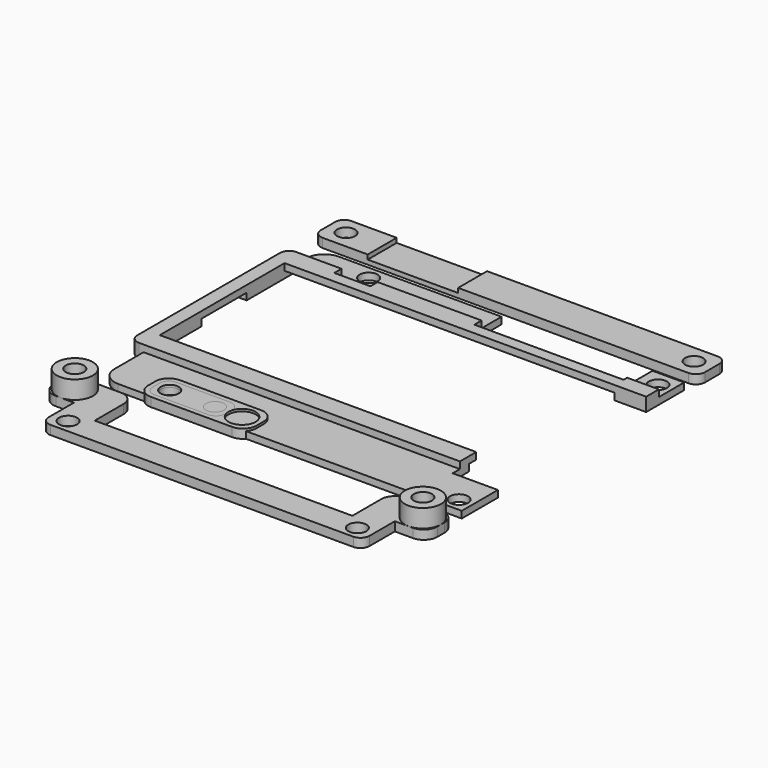
from build123d import *

# Parameters (mm, degrees)
CYLINDER003_R     = 3
CYLINDER003_DEPTH = 2
CYLINDER_R        = 3
CYLINDER_DEPTH    = 2
BOX001_W          = 24
BOX001_H          = 8
BOX001_DEPTH      = 2
FILLET001_R       = 3
CYLINDER001_R     = 2
CYLINDER001_DEPTH = 2
CYLINDER002_R     = 2
CYLINDER002_DEPTH = 2
BOX003_W          = 20
BOX003_H          = 8
BOX003_DEPTH      = 1
BOX_W             = 85
BOX_H             = 8
BOX_DEPTH         = 2
FILLET_R          = 2
CYLINDER006_R     = 2
CYLINDER006_DEPTH = 2
CYLINDER007_R     = 2
CYLINDER007_DEPTH = 2
BOX002_W          = 16
BOX002_H          = 6
BOX002_DEPTH      = 2
FILLET002_R       = 2
CYLINDER009_R     = 2
CYLINDER009_DEPTH = 6
CYLINDER010_R     = 2
CYLINDER010_DEPTH = 2
CYLINDER011_R     = 2
CYLINDER011_DEPTH = 2
CYLINDER016_R     = 2
CYLINDER016_DEPTH = 6
BOX010_W          = 7
BOX010_H          = 3
BOX010_DEPTH      = 2
BOX006_W          = 71
BOX006_H          = 6
BOX006_DEPTH      = 2
BOX011_W          = 7
BOX011_H          = 3
BOX011_DEPTH      = 2
BOX005_W          = 14
BOX005_H          = 8
BOX005_DEPTH      = 2
CYLINDER013_R     = 4
CYLINDER013_DEPTH = 4
CYLINDER012_R     = 4
CYLINDER012_DEPTH = 4
BOX004_W          = 14
BOX004_H          = 8
BOX004_DEPTH      = 2
FILLET007_R       = 3
FILLET008_R       = 2
CYLINDER005_R     = 2
CYLINDER005_DEPTH = 1
CYLINDER004_R     = 4
CYLINDER004_DEPTH = 1
CYLINDER014_R     = 2
CYLINDER014_DEPTH = 1.5
CYLINDER015_R     = 2
CYLINDER015_DEPTH = 1.5
CYLINDER017_R     = 2
CYLINDER017_DEPTH = 1.5
CYLINDER018_R     = 2
CYLINDER018_DEPTH = 1.5
BOX020_W          = 8
BOX020_H          = 2
BOX020_DEPTH      = 1.5
BOX007_W          = 70
BOX007_H          = 14.5
BOX007_DEPTH      = 1.5
BOX008_W          = 70
BOX008_H          = 4.5
BOX008_DEPTH      = 1.5
BOX009_W          = 3
BOX009_H          = 16
BOX009_DEPTH      = 3
BOX014_W          = 3
BOX014_H          = 12.5
BOX014_DEPTH      = 1.5
BOX017_W          = 3
BOX017_H          = 15
BOX017_DEPTH      = 3
BOX016_W          = 40
BOX016_H          = 4.5
BOX016_DEPTH      = 1.5
BOX013_W          = 40
BOX013_H          = 7.5
BOX013_DEPTH      = 1.5
BOX018_W          = 33
BOX018_H          = 2.5
BOX018_DEPTH      = 1.5
BOX019_W          = 7
BOX019_H          = 3.5
BOX019_DEPTH      = 1.5
BOX015_W          = 7
BOX015_H          = 10.5
BOX015_DEPTH      = 1.5
BOX012_W          = 10
BOX012_H          = 10
BOX012_DEPTH      = 1.5
FILLET009_R       = 4
FILLET010_R       = 2


with BuildPart() as cylinder003:
    # Cylinder003 → Cylinder003 (new body)
    with BuildSketch(Plane(origin=(16, 0, 0), x_dir=(1, 0, 0), z_dir=(0, 0, 1))):
        Circle(CYLINDER003_R)
    extrude(amount=CYLINDER003_DEPTH)


with BuildPart() as cylinder:
    # Cylinder → Cylinder (new body)
    with BuildSketch(Plane.XY):
        Circle(CYLINDER_R)
    extrude(amount=CYLINDER_DEPTH)


with BuildPart() as short_part:
    # Box001 → Box001 (new body)
    with BuildSketch(Plane(origin=(-4, -4, 0), x_dir=(1, 0, 0), z_dir=(0, 0, 1))):
        with Locations((12, 4)):
            Rectangle(BOX001_W, BOX001_H)
    extrude(amount=BOX001_DEPTH)

    # Fillet001
    fillet001_edges = [short_part.edges().sort_by_distance(p)[0] for p in [
        (-4, -4, 1),
        (-4, 4, 1),
        (20, -4, 1),
        (20, 4, 1),
    ]]
    fillet(fillet001_edges, radius=FILLET001_R)

    # Cut: cut Cylinder
    add(cylinder.part, mode=Mode.SUBTRACT)

    # Cut004: cut Cylinder003
    add(cylinder003.part, mode=Mode.SUBTRACT)


with BuildPart() as cylinder001:
    # Cylinder001 → Cylinder001 (new body)
    with BuildSketch(Plane(origin=(77, 0, 0), x_dir=(1, 0, 0), z_dir=(0, 0, 1))):
        Circle(CYLINDER001_R)
    extrude(amount=CYLINDER001_DEPTH)


with BuildPart() as cylinder002:
    # Cylinder002 → Cylinder002 (new body)
    with BuildSketch(Plane.XY):
        Circle(CYLINDER002_R)
    extrude(amount=CYLINDER002_DEPTH)


with BuildPart() as cube003:
    # Box003 → Box003 (new body)
    with BuildSketch(Plane(origin=(8, -4, 1), x_dir=(1, 0, 0), z_dir=(0, 0, 1))):
        with Locations((10, 4)):
            Rectangle(BOX003_W, BOX003_H)
    extrude(amount=BOX003_DEPTH)


with BuildPart() as long_part:
    # Box → Box (new body)
    with BuildSketch(Plane(origin=(-4, -4, 0), x_dir=(1, 0, 0), z_dir=(0, 0, 1))):
        with Locations((42.5, 4)):
            Rectangle(BOX_W, BOX_H)
    extrude(amount=BOX_DEPTH)

    # Cut008: cut Cube003
    add(cube003.part, mode=Mode.SUBTRACT)

    # Cut009: cut Cylinder002
    add(cylinder002.part, mode=Mode.SUBTRACT)

    # Cut010: cut Cylinder001
    add(cylinder001.part, mode=Mode.SUBTRACT)

    # Fillet
    fillet_edges = [long_part.edges().sort_by_distance(p)[0] for p in [
        (-4, -4, 1),
        (-4, 4, 1),
        (81, -4, 1),
        (81, 4, 1),
    ]]
    fillet(fillet_edges, radius=FILLET_R)


with BuildPart() as long_part_1:
    # Fillet placement: moved
    add(long_part.part.moved(Location((-13, 65, 0))))


with BuildPart() as cylinder006:
    # Cylinder006 → Cylinder006 (new body)
    with BuildSketch(Plane(origin=(10, 0, 0), x_dir=(1, 0, 0), z_dir=(0, 0, 1))):
        Circle(CYLINDER006_R)
    extrude(amount=CYLINDER006_DEPTH)


with BuildPart() as cylinder007:
    # Cylinder007 → Cylinder007 (new body)
    with BuildSketch(Plane.XY):
        Circle(CYLINDER007_R)
    extrude(amount=CYLINDER007_DEPTH)


with BuildPart() as lcd_holder:
    # Box002 → Box002 (new body)
    with BuildSketch(Plane(origin=(-3, -3, 0), x_dir=(1, 0, 0), z_dir=(0, 0, 1))):
        with Locations((8, 3)):
            Rectangle(BOX002_W, BOX002_H)
    extrude(amount=BOX002_DEPTH)

    # Cut011: cut Cylinder007
    add(cylinder007.part, mode=Mode.SUBTRACT)

    # Cut012: cut Cylinder006
    add(cylinder006.part, mode=Mode.SUBTRACT)

    # Fillet002
    fillet002_edges = [lcd_holder.edges().sort_by_distance(p)[0] for p in [
        (-3, -3, 1),
        (-3, 3, 1),
        (13, -3, 1),
        (13, 3, 1),
    ]]
    fillet(fillet002_edges, radius=FILLET002_R)


with BuildPart() as cylinder009:
    # Cylinder009 → Cylinder009 (new body)
    with BuildSketch(Plane(origin=(77, 3, 0), x_dir=(1, 0, 0), z_dir=(0, 0, 1))):
        Circle(CYLINDER009_R)
    extrude(amount=CYLINDER009_DEPTH)


with BuildPart() as cylinder010:
    # Cylinder010 → Cylinder010 (new body)
    with BuildSketch(Plane(origin=(6.5, -7, 0), x_dir=(1, 0, 0), z_dir=(0, 0, 1))):
        Circle(CYLINDER010_R)
    extrude(amount=CYLINDER010_DEPTH)


with BuildPart() as cylinder011:
    # Cylinder011 → Cylinder011 (new body)
    with BuildSketch(Plane(origin=(70.5, -7, 0), x_dir=(1, 0, 0), z_dir=(0, 0, 1))):
        Circle(CYLINDER011_R)
    extrude(amount=CYLINDER011_DEPTH)


with BuildPart() as cylinder016:
    # Cylinder016 → Cylinder016 (new body)
    with BuildSketch(Plane(origin=(0, 3, 0), x_dir=(1, 0, 0), z_dir=(0, 0, 1))):
        Circle(CYLINDER016_R)
    extrude(amount=CYLINDER016_DEPTH)


with BuildPart() as cube010:
    # Box010 → Box010 (new body)
    with BuildSketch(Plane(origin=(3, -4, 0), x_dir=(1, 0, 0), z_dir=(0, 0, 1))):
        with Locations((3.5, 1.5)):
            Rectangle(BOX010_W, BOX010_H)
    extrude(amount=BOX010_DEPTH)


with BuildPart() as cube006:
    # Box006 → Box006 (new body)
    with BuildSketch(Plane(origin=(3, -10, 0), x_dir=(1, 0, 0), z_dir=(0, 0, 1))):
        with Locations((35.5, 3)):
            Rectangle(BOX006_W, BOX006_H)
    extrude(amount=BOX006_DEPTH)


with BuildPart() as cube011:
    # Box011 → Box011 (new body)
    with BuildSketch(Plane(origin=(67, -4, 0), x_dir=(1, 0, 0), z_dir=(0, 0, 1))):
        with Locations((3.5, 1.5)):
            Rectangle(BOX011_W, BOX011_H)
    extrude(amount=BOX011_DEPTH)


with BuildPart() as cube005:
    # Box005 → Box005 (new body)
    with BuildSketch(Plane(origin=(67, -1, 0), x_dir=(1, 0, 0), z_dir=(0, 0, 1))):
        with Locations((7, 4)):
            Rectangle(BOX005_W, BOX005_H)
    extrude(amount=BOX005_DEPTH)


with BuildPart() as cylinder013:
    # Cylinder013 → Cylinder013 (new body)
    with BuildSketch(Plane(origin=(77, 3, 2), x_dir=(1, 0, 0), z_dir=(0, 0, 1))):
        Circle(CYLINDER013_R)
    extrude(amount=CYLINDER013_DEPTH)


with BuildPart() as cylinder012:
    # Cylinder012 → Cylinder012 (new body)
    with BuildSketch(Plane(origin=(0, 3, 2), x_dir=(1, 0, 0), z_dir=(0, 0, 1))):
        Circle(CYLINDER012_R)
    extrude(amount=CYLINDER012_DEPTH)


with BuildPart() as fillet008:
    # Box004 → Box004 (new body)
    with BuildSketch(Plane(origin=(-4, -1, 0), x_dir=(1, 0, 0), z_dir=(0, 0, 1))):
        with Locations((7, 4)):
            Rectangle(BOX004_W, BOX004_H)
    extrude(amount=BOX004_DEPTH)

    # Fusion: union Cube010, Cube006, Cube011, Cube005, Cylinder013, Cylinder012
    add(cube010.part)
    add(cube006.part)
    add(cube011.part)
    add(cube005.part)
    add(cylinder013.part)
    add(cylinder012.part)

    # Cut020: cut Cylinder016
    add(cylinder016.part, mode=Mode.SUBTRACT)

    # Cut021: cut Cylinder011
    add(cylinder011.part, mode=Mode.SUBTRACT)

    # Cut022: cut Cylinder010
    add(cylinder010.part, mode=Mode.SUBTRACT)

    # Cut023: cut Cylinder009
    add(cylinder009.part, mode=Mode.SUBTRACT)

    # Fillet007
    fillet007_edges = [fillet008.edges().sort_by_distance(p)[0] for p in [
        (-4, -1, 1),
        (-4, 7, 1),
        (10, 7, 1),
        (67, 7, 1),
        (81, -1, 1),
        (81, 7, 1),
    ]]
    fillet(fillet007_edges, radius=FILLET007_R)

    # Fillet008
    fillet008_edges = [fillet008.edges().sort_by_distance(p)[0] for p in [
        (3, -10, 1),
        (74, -10, 1),
    ]]
    fillet(fillet008_edges, radius=FILLET008_R)


with BuildPart() as fillet008_1:
    # Fillet008 placement: moved
    add(fillet008.part.moved(Location((-13, -13, 0))))


with BuildPart() as cylinder005:
    # Cylinder005 → Cylinder005 (new body)
    with BuildSketch(Plane.XY):
        Circle(CYLINDER005_R)
    extrude(amount=CYLINDER005_DEPTH)


with BuildPart() as washer:
    # Cylinder004 → Cylinder004 (new body)
    with BuildSketch(Plane.XY):
        Circle(CYLINDER004_R)
    extrude(amount=CYLINDER004_DEPTH)

    # Cut026: cut Cylinder005
    add(cylinder005.part, mode=Mode.SUBTRACT)


with BuildPart() as cylinder014:
    # Cylinder014 → Cylinder014 (new body)
    with BuildSketch(Plane.XY):
        Circle(CYLINDER014_R)
    extrude(amount=CYLINDER014_DEPTH)


with BuildPart() as cylinder015:
    # Cylinder015 → Cylinder015 (new body)
    with BuildSketch(Plane(origin=(64, 0, 0), x_dir=(1, 0, 0), z_dir=(0, 0, 1))):
        Circle(CYLINDER015_R)
    extrude(amount=CYLINDER015_DEPTH)


with BuildPart() as cylinder017:
    # Cylinder017 → Cylinder017 (new body)
    with BuildSketch(Plane(origin=(64, 55, 0), x_dir=(1, 0, 0), z_dir=(0, 0, 1))):
        Circle(CYLINDER017_R)
    extrude(amount=CYLINDER017_DEPTH)


with BuildPart() as cylinder018:
    # Cylinder018 → Cylinder018 (new body)
    with BuildSketch(Plane(origin=(0, 55, 0), x_dir=(1, 0, 0), z_dir=(0, 0, 1))):
        Circle(CYLINDER018_R)
    extrude(amount=CYLINDER018_DEPTH)


with BuildPart() as cube020:
    # Box020 → Box020 (new body)
    with BuildSketch(Plane(origin=(-4, 50.5, 1.5), x_dir=(1, 0, 0), z_dir=(0, 0, 1))):
        with Locations((4, 1)):
            Rectangle(BOX020_W, BOX020_H)
    extrude(amount=BOX020_DEPTH)


with BuildPart() as cube007:
    # Box007 → Box007 (new body)
    with BuildSketch(Plane(origin=(-13, -3, 0), x_dir=(1, 0, 0), z_dir=(0, 0, 1))):
        with Locations((35, 7.25)):
            Rectangle(BOX007_W, BOX007_H)
    extrude(amount=BOX007_DEPTH)


with BuildPart() as cube008:
    # Box008 → Box008 (new body)
    with BuildSketch(Plane(origin=(-13, 9, 1.5), x_dir=(1, 0, 0), z_dir=(0, 0, 1))):
        with Locations((35, 2.25)):
            Rectangle(BOX008_W, BOX008_H)
    extrude(amount=BOX008_DEPTH)


with BuildPart() as cube009:
    # Box009 → Box009 (new body)
    with BuildSketch(Plane(origin=(-16, 9, 0), x_dir=(1, 0, 0), z_dir=(0, 0, 1))):
        with Locations((1.5, 8)):
            Rectangle(BOX009_W, BOX009_H)
    extrude(amount=BOX009_DEPTH)


with BuildPart() as cube014:
    # Box014 → Box014 (new body)
    with BuildSketch(Plane(origin=(-16, 25, 1.5), x_dir=(1, 0, 0), z_dir=(0, 0, 1))):
        with Locations((1.5, 6.25)):
            Rectangle(BOX014_W, BOX014_H)
    extrude(amount=BOX014_DEPTH)


with BuildPart() as cube017:
    # Box017 → Box017 (new body)
    with BuildSketch(Plane(origin=(-16, 37.5, 0), x_dir=(1, 0, 0), z_dir=(0, 0, 1))):
        with Locations((1.5, 7.5)):
            Rectangle(BOX017_W, BOX017_H)
    extrude(amount=BOX017_DEPTH)


with BuildPart() as cube016:
    # Box016 → Box016 (new body)
    with BuildSketch(Plane(origin=(-13, 48, 1.5), x_dir=(1, 0, 0), z_dir=(0, 0, 1))):
        with Locations((20, 2.25)):
            Rectangle(BOX016_W, BOX016_H)
    extrude(amount=BOX016_DEPTH)


with BuildPart() as cube013:
    # Box013 → Box013 (new body)
    with BuildSketch(Plane(origin=(-13, 50.5, 0), x_dir=(1, 0, 0), z_dir=(0, 0, 1))):
        with Locations((20, 3.75)):
            Rectangle(BOX013_W, BOX013_H)
    extrude(amount=BOX013_DEPTH)


with BuildPart() as cube018:
    # Box018 → Box018 (new body)
    with BuildSketch(Plane(origin=(27, 48, 1.5), x_dir=(1, 0, 0), z_dir=(0, 0, 1))):
        with Locations((16.5, 1.25)):
            Rectangle(BOX018_W, BOX018_H)
    extrude(amount=BOX018_DEPTH)


with BuildPart() as cube019:
    # Box019 → Box019 (new body)
    with BuildSketch(Plane(origin=(60, 48, 1.5), x_dir=(1, 0, 0), z_dir=(0, 0, 1))):
        with Locations((3.5, 1.75)):
            Rectangle(BOX019_W, BOX019_H)
    extrude(amount=BOX019_DEPTH)


with BuildPart() as cube015:
    # Box015 → Box015 (new body)
    with BuildSketch(Plane(origin=(60, 48, 0), x_dir=(1, 0, 0), z_dir=(0, 0, 1))):
        with Locations((3.5, 5.25)):
            Rectangle(BOX015_W, BOX015_H)
    extrude(amount=BOX015_DEPTH)


with BuildPart() as board_holder:
    # Box012 → Box012 (new body)
    with BuildSketch(Plane(origin=(57, -3, 0), x_dir=(1, 0, 0), z_dir=(0, 0, 1))):
        with Locations((5, 5)):
            Rectangle(BOX012_W, BOX012_H)
    extrude(amount=BOX012_DEPTH)

    # Fusion001: union Cube007, Cube008, Cube009, Cube014, Cube017, Cube016, Cube013, Cube018, Cube019, Cube015
    add(cube007.part)
    add(cube008.part)
    add(cube009.part)
    add(cube014.part)
    add(cube017.part)
    add(cube016.part)
    add(cube013.part)
    add(cube018.part)
    add(cube019.part)
    add(cube015.part)

    # Cut027: cut Cube020
    add(cube020.part, mode=Mode.SUBTRACT)

    # Cut028: cut Cylinder018
    add(cylinder018.part, mode=Mode.SUBTRACT)

    # Cut029: cut Cylinder017
    add(cylinder017.part, mode=Mode.SUBTRACT)

    # Cut030: cut Cylinder015
    add(cylinder015.part, mode=Mode.SUBTRACT)

    # Cut031: cut Cylinder014
    add(cylinder014.part, mode=Mode.SUBTRACT)

    # Fillet009
    fillet009_edges = [board_holder.edges().sort_by_distance(p)[0] for p in [
        (-13, -3, 0.75),
        (-13, 58, 0.75),
    ]]
    fillet(fillet009_edges, radius=FILLET009_R)

    # Fillet010
    fillet010_edges = [board_holder.edges().sort_by_distance(p)[0] for p in [
        (-16, 9, 1.5),
        (-16, 52.5, 1.5),
    ]]
    fillet(fillet010_edges, radius=FILLET010_R)


solid = Compound([short_part.part, long_part_1.part, lcd_holder.part, fillet008_1.part, washer.part, board_holder.part])
